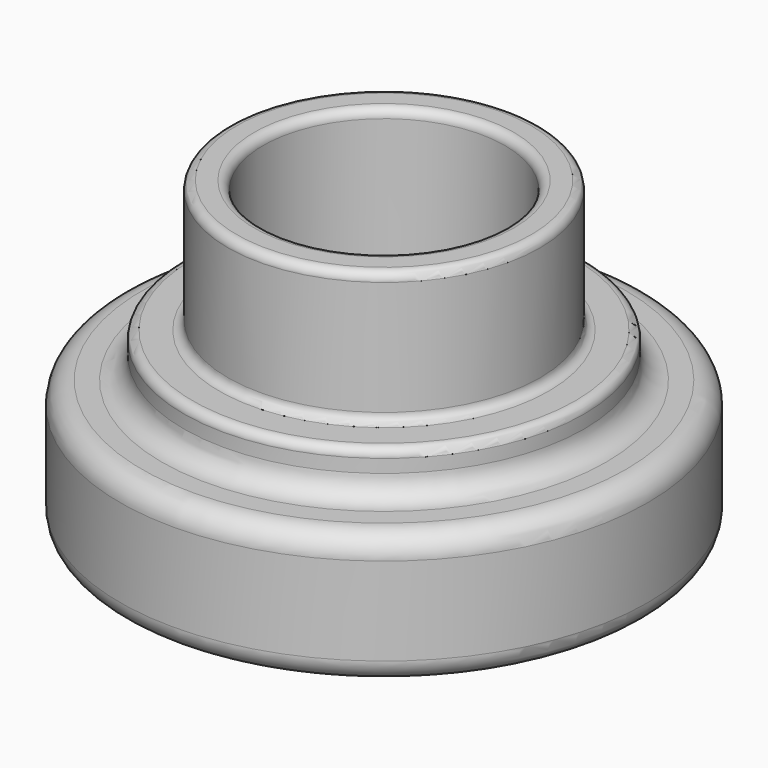
from build123d import *


with BuildPart() as f1:
    # F0 (on Front) → F1 (revolve)
    with BuildSketch(Plane.XZ):
        with BuildLine():
            Line((2.95, 0), (5.5, 0))
            ThreePointArc((5.5, 0), (5.853553, 0.146447), (6, 0.5))
            Line((6, 0.5), (6, 2.5))
            ThreePointArc((6, 2.5), (5.853553, 2.853553), (5.5, 3))
            Line((5.5, 3), (5.05, 3))
            ThreePointArc((5.05, 3), (4.696447, 3.146447), (4.55, 3.5))
            Line((4.55, 3.5), (4.55, 3.8))
            ThreePointArc((4.55, 3.8), (4.491421, 3.941421), (4.35, 4))
            Line((4.35, 4), (3.75, 4))
            ThreePointArc((3.75, 4), (3.608579, 4.058579), (3.55, 4.2))
            Line((3.55, 4.2), (3.55, 6.8))
            ThreePointArc((3.55, 6.8), (3.491421, 6.941421), (3.35, 7))
            Line((3.35, 7), (2.95, 7))
            ThreePointArc((2.95, 7), (2.808579, 6.941421), (2.75, 6.8))
            Line((2.75, 6.8), (2.75, 0.2))
            ThreePointArc((2.75, 0.2), (2.808579, 0.058579), (2.95, 0))
        make_face()
    revolve(axis=Axis((0, 0, 7.476741), (0, 0, 1)))


solid = f1.part
